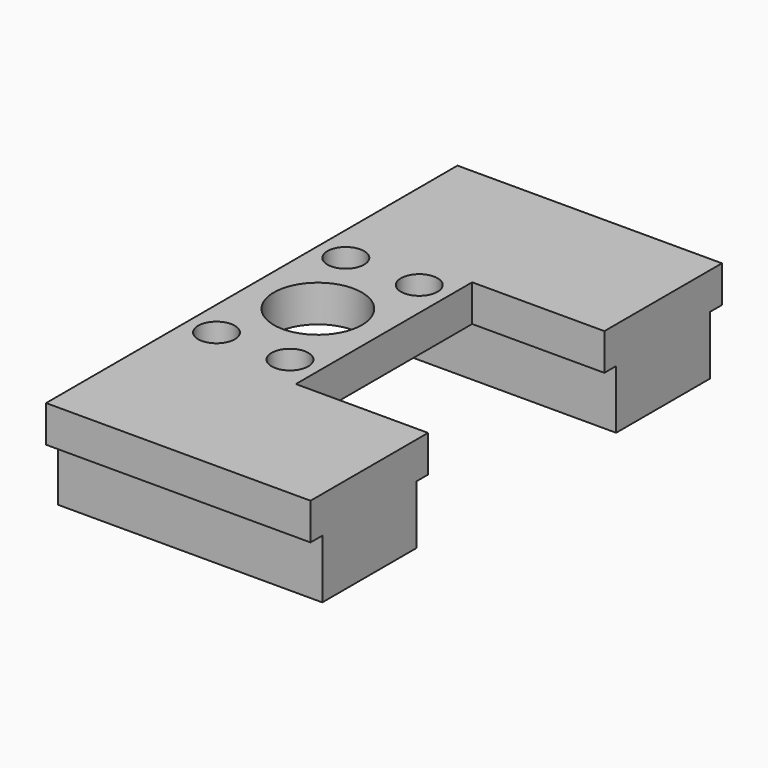
from build123d import *

# Parameters (mm, degrees)
F0_R     = 12.5
F0_R_2   = 30
F1_DEPTH = 25
F2_W     = 180
F2_H     = 80
F3_DEPTH = 40


with BuildPart() as f1:
    # F0 (on Top) → F1 (new body)
    with BuildSketch(Plane.XY):
        Polygon((65, 75), (65, 175), (-115, 175), (-115, -175), (65, -175), (65, -75), (-25, -75), (-25, 0), (-25, 75), align=None)
        with Locations((-95, -55)):
            Circle(F0_R, mode=Mode.SUBTRACT)
        with Locations((-45, -55)):
            Circle(F0_R, mode=Mode.SUBTRACT)
        with Locations((-95, 55)):
            Circle(F0_R, mode=Mode.SUBTRACT)
        with Locations((-70, 0)):
            Circle(F0_R_2, mode=Mode.SUBTRACT)
        with Locations((-45, 55)):
            Circle(F0_R, mode=Mode.SUBTRACT)
    extrude(amount=F1_DEPTH)

    # F2 (on Top) → F3 (join)
    with BuildSketch(Plane.XY):
        with Locations((-25, -125)):
            Rectangle(F2_W, F2_H)
        with Locations((-25, 125)):
            Rectangle(F2_W, F2_H)
    extrude(amount=-F3_DEPTH)


solid = f1.part
